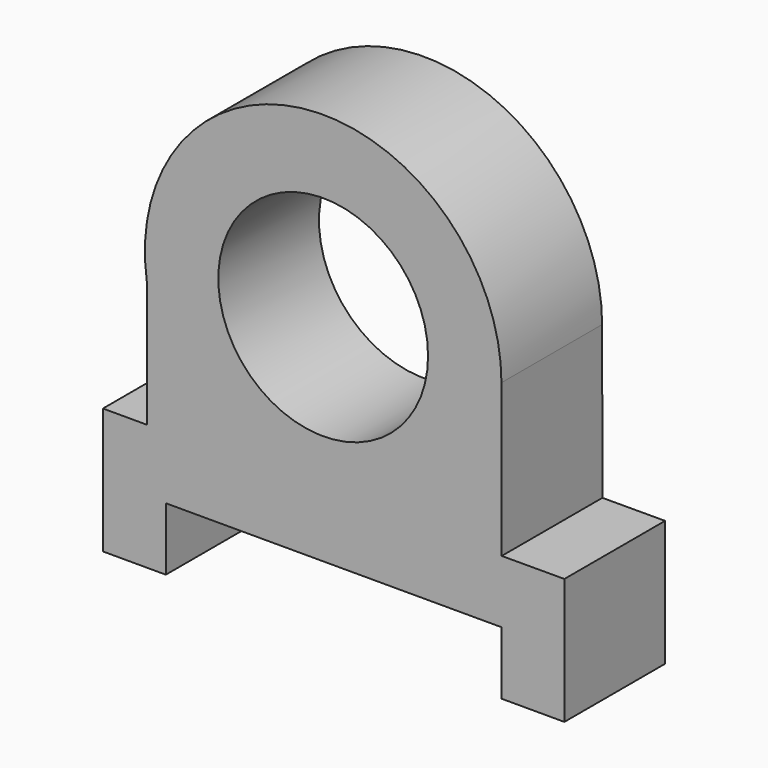
from build123d import *

# Parameters (mm, degrees)
F0_R     = 12.5
F1_DEPTH = 15


with BuildPart() as f1:
    # F0 (on Front) → F1 (new body)
    with BuildSketch(Plane.XZ):
        with BuildLine():
            Line((-7.5, 0), (0, 0))
            Line((0, 0), (0, 15))
            Line((0, 15), (-7.468736, 14.98715))
            Line((-7.468736, 14.98715), (-7.5, 33.157896))
            ThreePointArc((-7.5, 33.157896), (-30.333116, 54.31228), (-49.769478, 30))
            Line((-49.769478, 30), (-49.769478, 15))
            Line((-49.769478, 15), (-55, 15))
            Line((-55, 15), (-55, 0))
            Line((-55, 0), (-47.5, 0))
            Line((-47.5, 0), (-47.5, 7.5))
            Line((-47.5, 7.5), (-7.5, 7.5))
            Line((-7.5, 7.5), (-7.5, 0))
        make_face()
        with Locations((-28.749969, 33.121335)):
            Circle(F0_R, mode=Mode.SUBTRACT)
    extrude(amount=F1_DEPTH)


solid = f1.part
